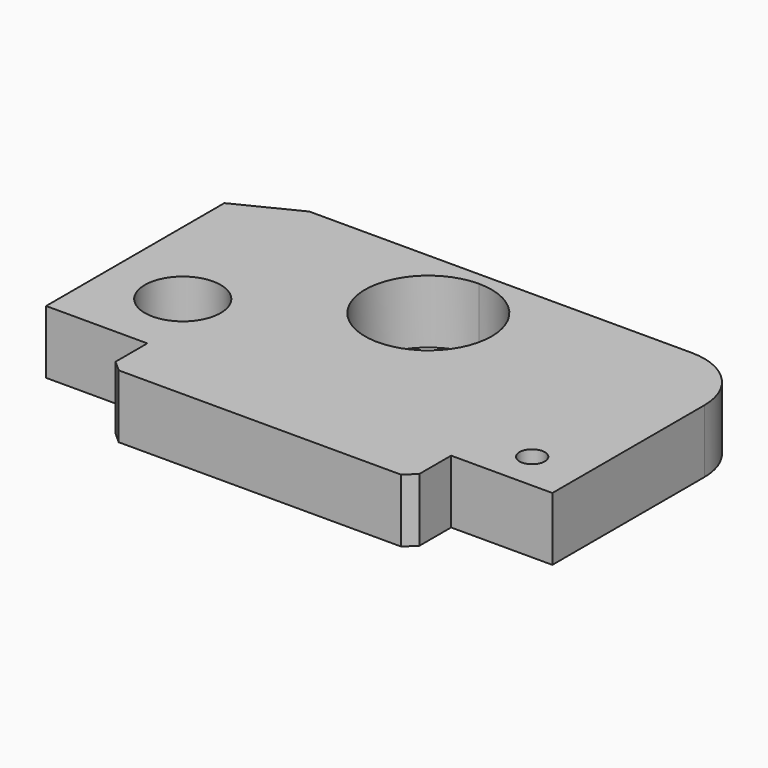
from build123d import *

# Parameters (mm, degrees)
F1_DEPTH = 25


with BuildPart() as f1:
    # F0 (on Top) → F1 (new body)
    with BuildSketch(Plane.XY):
        with BuildLine():
            ThreePointArc((-25, -11.365592), (-40, 3.634408), (-55, -11.365592))
            ThreePointArc((-55, -11.365592), (-40, -26.365592), (-25, -11.365592))
        make_face()
        with BuildLine():
            ThreePointArc((115, -26.365592), (106.464466, -22.830058), (110, -31.365592))
            ThreePointArc((110, -31.365592), (113.535534, -29.901126), (115, -26.365592))
        make_face()
        with BuildLine():
            ThreePointArc((50, 28.634408), (42.677669, 46.312077), (25, 53.634408))
            ThreePointArc((25, 53.634408), (7.32233, 10.956738), (50, 28.634408))
        make_face()
        with BuildLine():
            Line((-46, 58.634408), (-70, 46.634408))
            Line((-70, 46.634408), (-70, -11.365592))
            Line((-70, -11.365592), (-70, -41.365592))
            Line((-70, -41.365592), (-30, -41.365592))
            Line((-30, -41.365592), (-30, -57.068031))
            Line((-30, -57.068031), (-25.639629, -60.951665))
            Line((-25.639629, -60.951665), (85.903421, -60.951665))
            Line((85.903421, -60.951665), (90, -57.068031))
            Line((90, -57.068031), (90, -41.365592))
            Line((90, -41.365592), (110, -41.365592))
            Line((110, -41.365592), (130, -41.365592))
            Line((130, -41.365592), (130, 33.634408))
            ThreePointArc((130, 33.634408), (122.677669, 51.312077), (105, 58.634408))
            Line((105, 58.634408), (25, 58.634408))
            Line((25, 58.634408), (-46, 58.634408))
        make_face()
        with BuildLine():
            ThreePointArc((-25, -11.365592), (-40, -26.365592), (-55, -11.365592))
            ThreePointArc((-55, -11.365592), (-40, 3.634408), (-25, -11.365592))
        make_face(mode=Mode.SUBTRACT)
        with BuildLine():
            ThreePointArc((115, -26.365592), (113.535534, -29.901126), (110, -31.365592))
            ThreePointArc((110, -31.365592), (106.464466, -22.830058), (115, -26.365592))
        make_face(mode=Mode.SUBTRACT)
        with BuildLine():
            ThreePointArc((50, 28.634408), (7.32233, 10.956738), (25, 53.634408))
            ThreePointArc((25, 53.634408), (42.677669, 46.312077), (50, 28.634408))
        make_face(mode=Mode.SUBTRACT)
    extrude(amount=F1_DEPTH)


solid = f1.part
